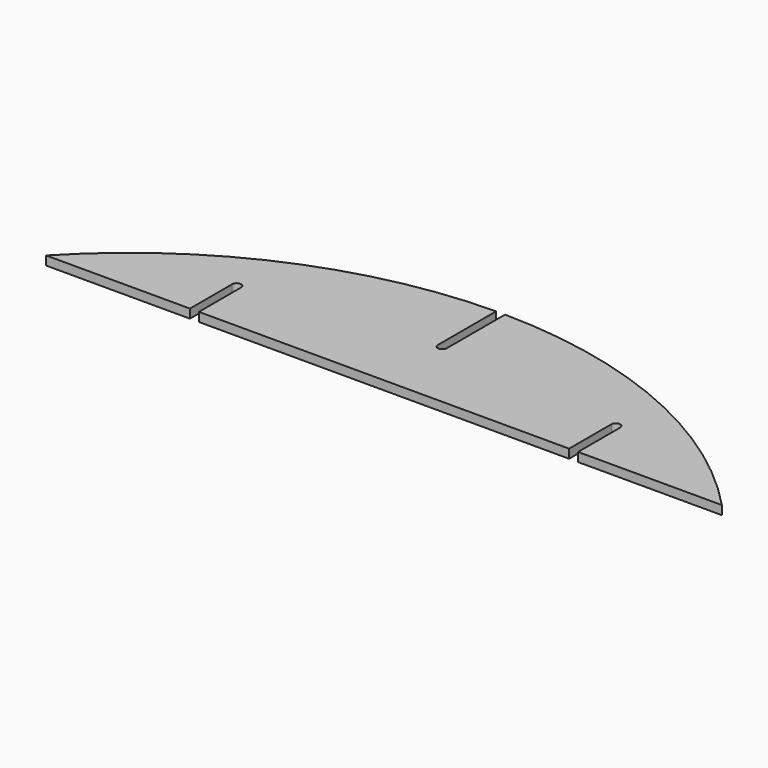
from build123d import *

# Parameters (mm, degrees)
F1_DEPTH = 12


with BuildPart() as f1:
    # F0 (on Top) → F1 (new body)
    with BuildSketch(Plane.XY):
        with BuildLine():
            Line((715.515126, 0), (909.030253, 0))
            ThreePointArc((909.030253, 0), (704.754458, 143.717449), (460.515126, 195.971199))
            Line((460.515126, 195.971199), (460.515126, 98))
            ThreePointArc((460.515126, 98), (454.515126, 92), (448.515126, 98))
            Line((448.515126, 98), (448.515126, 195.971199))
            ThreePointArc((448.515126, 195.971199), (204.275795, 143.717449), (0, 0))
            Line((0, 0), (193.515126, 0))
            Line((193.515126, 0), (193.515126, 71))
            ThreePointArc((193.515126, 71), (199.515126, 77), (205.515126, 71))
            Line((205.515126, 71), (205.515126, 0))
            Line((205.515126, 0), (703.515126, 0))
            Line((703.515126, 0), (703.515126, 71))
            ThreePointArc((703.515126, 71), (709.515126, 77), (715.515126, 71))
            Line((715.515126, 71), (715.515126, 0))
        make_face()
    extrude(amount=F1_DEPTH)


solid = f1.part
